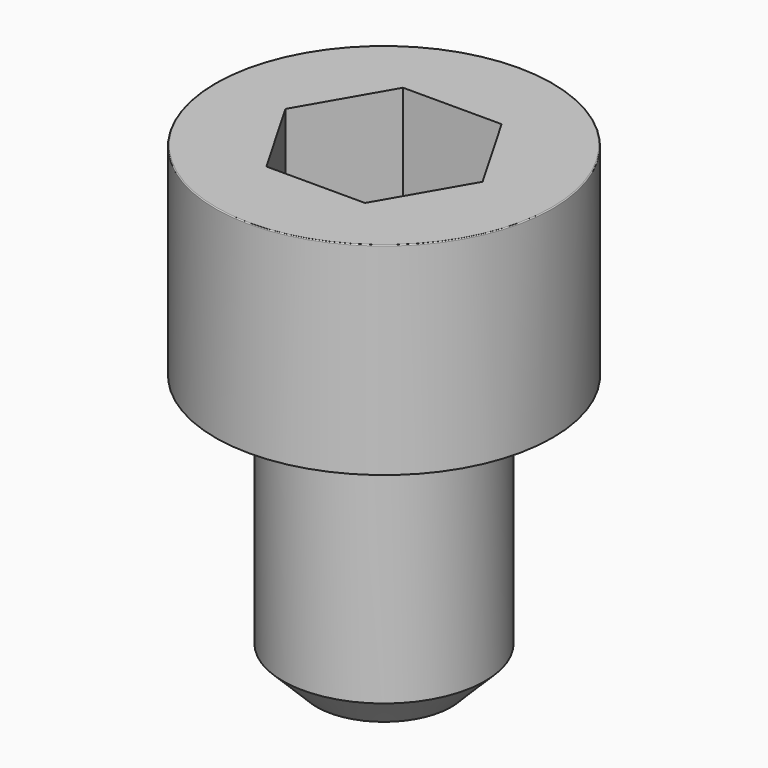
from build123d import *

# Parameters (mm, degrees)
POCKET_DEPTH = 5.06


with BuildPart() as part:
    # Sketch → Revolve (revolve)
    with BuildSketch(Plane.YZ):
        with BuildLine():
            Line((2.999, 0), (5, 0))
            Line((5, 0), (5, 5.97229))
            ThreePointArc((5, 5.97229), (4.991884, 5.991884), (4.97229, 6))
            Line((4.97229, 6), (0, 6))
            Line((0, -8), (0, 6))
            Line((2, -8), (0, -8))
            Line((3, -7), (2, -8))
            Line((3, -0.2), (3, -7))
            Line((2.999, 0), (3, -0.2))
        make_face()
    revolve(axis=Axis((0, 0, 0), (0, 0, 1)))

    # Sketch001 → Pocket (cut)
    with BuildSketch(Plane.XY.offset(6)):
        Polygon((2.921392, 0), (1.460696, 2.53), (-1.460696, 2.53), (-2.921392, 0), (-1.460696, -2.53), (1.460696, -2.53), align=None)
    extrude(amount=-POCKET_DEPTH, mode=Mode.SUBTRACT)


solid = part.part
